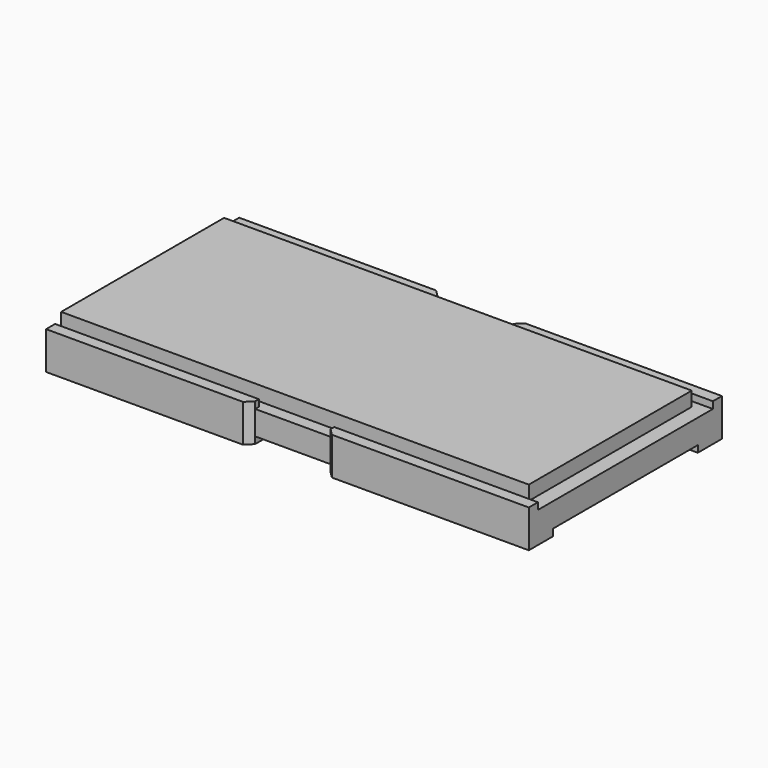
from build123d import *

# Parameters (mm, degrees)
SKETCH001_W  = 2.7
SKETCH001_H  = 0.19
PAD001_DEPTH = 6.2
SKETCH_W     = 3.02
SKETCH_H     = 0.32
PAD_DEPTH    = 6.4
PAD002_DEPTH = 2.7
CHAMFER_SIZE = 0.089


with BuildPart() as body001:
    # Sketch001 → Pad001 (new body)
    with BuildSketch(Plane.YZ):
        with Locations((0, 0.505)):
            Rectangle(SKETCH001_W, SKETCH001_H)
    extrude(amount=PAD001_DEPTH)


with BuildPart() as fusion002:
    # Sketch → Pad (new body)
    with BuildSketch(Plane.YZ):
        with Locations((0, 0.25)):
            Rectangle(SKETCH_W, SKETCH_H)
    extrude(amount=PAD_DEPTH)

    # Fusion002: union Body001
    add(body001.part)


with BuildPart() as body002:
    # Sketch002 → Pad002 (new body)
    with BuildSketch(Plane.YZ):
        Polygon((-1.45, 0.41), (-1.51, 0.41), (-1.51, 0.09), (-1.2, 0.09), (-1.2, 0), (-1.6, 0), (-1.6, 0.5), (-1.45, 0.5), align=None)
    extrude(amount=PAD002_DEPTH)

    # Chamfer
    chamfer_edges = [body002.edges().sort_by_distance(p)[0] for p in [
        (2.7, -1.6, 0.25),
    ]]
    chamfer(chamfer_edges, length=CHAMFER_SIZE)


with BuildPart() as mirror_of_body002:
    # mirror: instance of Body002
    add(body002.part.mirror(Plane(origin=(3.2, 0, 0), x_dir=(0, -1, 0), z_dir=(1, 0, 0))))


with BuildPart() as fusion:
    # Fusion base: copy of Body002
    add(body002.part)

    # Fusion: union Mirror of Body002
    add(mirror_of_body002.part)


with BuildPart() as mirror_of_fusion:
    # mirror001: instance of Fusion
    add(fusion.part.mirror(Plane(origin=(0, 0, 0), x_dir=(1, 0, 0), z_dir=(0, 1, 0))))


with BuildPart() as obj1:
    # Fusion001 base: copy of Fusion
    add(fusion.part)

    # Fusion001: union Mirror of Fusion
    add(mirror_of_fusion.part)

    # Fusion003: union Fusion002
    add(fusion002.part)


solid = obj1.part
